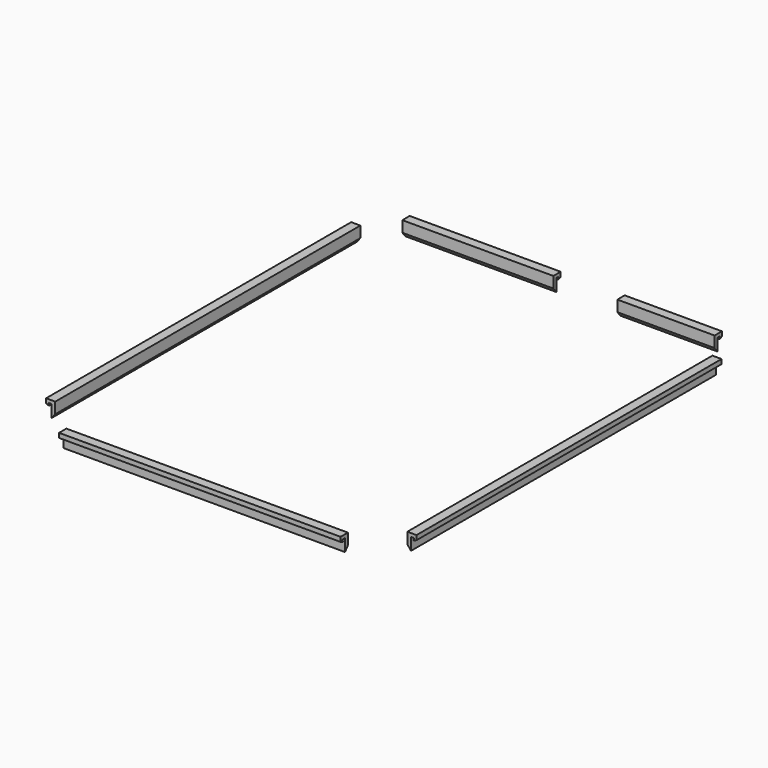
from build123d import *

# Parameters (mm, degrees)
EXTRUDE111_DEPTH                  = 55
EXTRUDE112_DEPTH                  = 74.5
PART_MIRRORING010_PLACEMENT_ANGLE = 90
EXTRUDE113_DEPTH                  = 74.5
PART_MIRRORING012_PLACEMENT_ANGLE = 90
EXTRUDE114_DEPTH                  = 19
EXTRUDE110_DEPTH                  = 29.5


with BuildPart() as bottom_notch010:
    # Sketch113 → Extrude111 (new body)
    with BuildSketch(Plane.YZ):
        Polygon((1.890375, 25.594459), (1.890375, 27.613628), (1.890375, 28.007893), (1.285825, 28.007893), (1.394986, 27.535334), (0.819798, 27.769814), (0.819798, 28.652969), (2.608973, 28.652969), (2.608973, 26.491592), align=None)
    extrude(amount=EXTRUDE111_DEPTH)


with BuildPart() as bottom_notch010_1:
    # Extrude111 placement: moved
    add(bottom_notch010.part.moved(Location((9.5, 0, -0.1))))


with BuildPart() as bottom_notch011:
    # Sketch114 → Extrude112 (new body)
    with BuildSketch(Plane.YZ):
        Polygon((1.890375, 25.594459), (1.890375, 27.613628), (1.890375, 28.007893), (1.285825, 28.007893), (1.394986, 27.535334), (0.819798, 27.769814), (0.819798, 28.652969), (2.608973, 28.652969), (2.608973, 26.491592), align=None)
    extrude(amount=EXTRUDE112_DEPTH)


with BuildPart() as bottom_notch011_1:
    # Extrude112 placement: moved
    add(bottom_notch011.part.moved(Location((4.5, 0, -0.1))))


with BuildPart() as left_notch002:
    # Part__Mirroring010: instance of Bottom_Notch011
    add(bottom_notch011_1.part.mirror(Plane(origin=(37, 2e-06, 27.023727), x_dir=(1, 0, 0), z_dir=(0, 1, 0))))


with BuildPart() as left_notch002_1:
    # Part__Mirroring010 placement: moved
    add(left_notch002.part.moved(Location((0, 4, 0))).rotate(Axis((0, 4, 0), (0, 0, 1)), PART_MIRRORING010_PLACEMENT_ANGLE))


with BuildPart() as bottom_notch012:
    # Sketch115 → Extrude113 (new body)
    with BuildSketch(Plane.YZ):
        Polygon((1.890375, 25.594459), (1.890375, 27.613628), (1.890375, 28.007893), (1.285825, 28.007893), (1.394986, 27.535334), (0.819798, 27.769814), (0.819798, 28.652969), (2.608973, 28.652969), (2.608973, 26.491592), align=None)
    extrude(amount=EXTRUDE113_DEPTH)


with BuildPart() as bottom_notch012_1:
    # Extrude113 placement: moved
    add(bottom_notch012.part.moved(Location((4.5, 0, -0.1))))


with BuildPart() as right_notch002:
    # Part__Mirroring012: instance of Bottom_Notch012
    add(bottom_notch012_1.part.mirror(Plane(origin=(37, 2e-06, 27.0237), x_dir=(1, 0, 0), z_dir=(0, 1, 0))))


with BuildPart() as right_notch002_1:
    # Part__Mirroring012 placement: moved
    add(right_notch002.part.rotate(Axis((0, 0, 0), (0, 0, 1)), PART_MIRRORING012_PLACEMENT_ANGLE))


with BuildPart() as part_mirroring011:
    # Part__Mirroring011: instance of right_notch002
    add(right_notch002_1.part.mirror(Plane(origin=(0, 0, 0), x_dir=(0, -1, 0), z_dir=(1, 0, 0))))


with BuildPart() as part_mirroring011_1:
    # Part__Mirroring011 placement: moved
    add(part_mirroring011.part.moved(Location((74, 4, 0))))


with BuildPart() as bottom_notch013:
    # Sketch116 → Extrude114 (new body)
    with BuildSketch(Plane.YZ):
        Polygon((1.890375, 25.594459), (1.890375, 27.613628), (1.890375, 28.007893), (1.285825, 28.007893), (1.394986, 27.535334), (0.819798, 27.769814), (0.819798, 28.652969), (2.608973, 28.652969), (2.608973, 26.491592), align=None)
    extrude(amount=EXTRUDE114_DEPTH)


with BuildPart() as bottom_notch013_1:
    # Extrude114 placement: moved
    add(bottom_notch013.part.moved(Location((4.5, 0, -0.1))))


with BuildPart() as top_notch004:
    # Part__Mirroring013: instance of Bottom_Notch013
    add(bottom_notch013_1.part.mirror(Plane(origin=(0, 0, 0), x_dir=(1, 0, 0), z_dir=(0, 1, 0))))


with BuildPart() as top_notch004_1:
    # Part__Mirroring013 placement: moved
    add(top_notch004.part.moved(Location((44, 91, 0))))


with BuildPart() as bottom_notch009:
    # Sketch112 → Extrude110 (new body)
    with BuildSketch(Plane.YZ):
        Polygon((1.890375, 25.594459), (1.890375, 27.613628), (1.890375, 28.007893), (1.285825, 28.007893), (1.394986, 27.535334), (0.819798, 27.769814), (0.819798, 28.652969), (2.608973, 28.652969), (2.608973, 26.491592), align=None)
    extrude(amount=EXTRUDE110_DEPTH)


with BuildPart() as bottom_notch009_1:
    # Extrude110 placement: moved
    add(bottom_notch009.part.moved(Location((4.5, 0, -0.1))))


with BuildPart() as notch:
    # Part__Mirroring009: instance of Bottom_Notch009
    add(bottom_notch009_1.part.mirror(Plane(origin=(0, 0, 0), x_dir=(1, 0, 0), z_dir=(0, 1, 0))))


with BuildPart() as notch_1:
    # Part__Mirroring009 placement: moved
    add(notch.part.moved(Location((2, 91, 0))))

    # Fusion072: union Bottom_Notch010, left_notch002, Part__Mirroring011, Top_notch004
    add(bottom_notch010_1.part)
    add(left_notch002_1.part)
    add(part_mirroring011_1.part)
    add(top_notch004_1.part)


solid = notch_1.part
